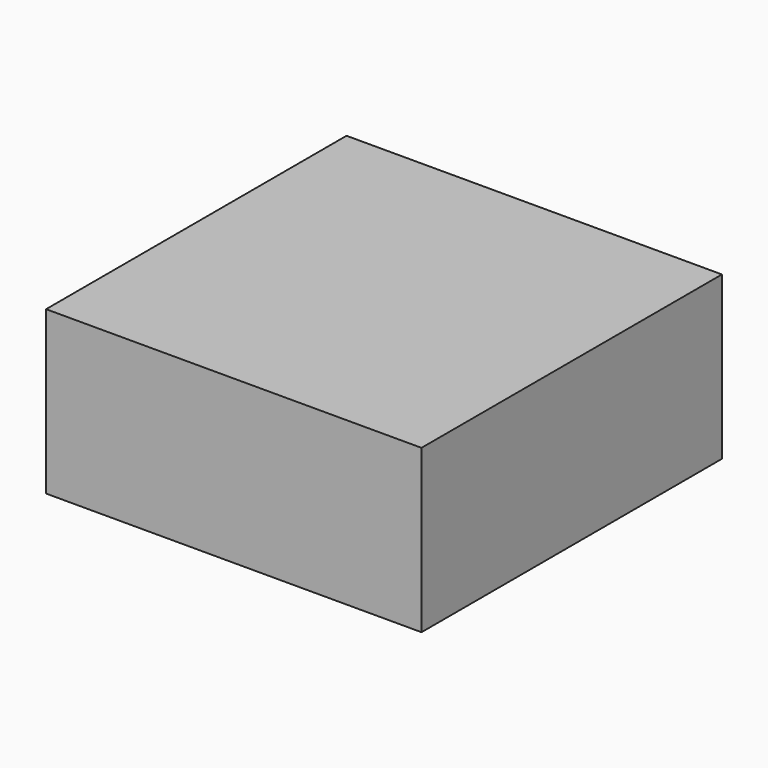
from build123d import *

# Parameters (mm, degrees)
F0_W     = 150.370433
F0_H     = 150.421701
F1_DEPTH = 65.024
F2_T     = -2.54


with BuildPart() as f1:
    # F0 (on Top) → F1 (new body)
    with BuildSketch(Plane.XY):
        with Locations((0.977538, 0.564386)):
            Rectangle(F0_W, F0_H)
    extrude(amount=-F1_DEPTH)

    # F2
    f2_openings = [f1.faces().sort_by_distance(p)[0] for p in [
        (0.977539, 0.564385, -65.024),
    ]]
    offset(amount=F2_T, openings=f2_openings)


solid = f1.part
